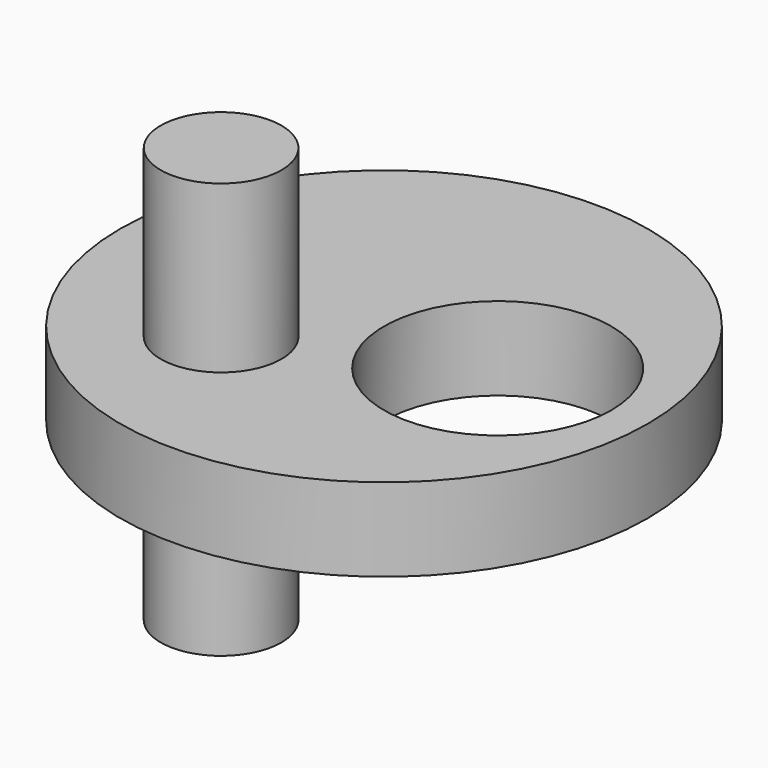
from build123d import *

# Parameters (mm, degrees)
F0_R          = 31.728822
F0_R_2        = 13.666047
F1_DEPTH      = 5
F1_DEPTH_BACK = 5
F2_R          = 7.26181
F3_DEPTH      = 25
F3_DEPTH_BACK = 25


with BuildPart() as f1:
    # F0 (on Top) → F1 (new body, two sides)
    with BuildSketch(Plane.XY) as f1_sk:
        Circle(F0_R)
        with Locations((13.666047, 0)):
            Circle(F0_R_2, mode=Mode.SUBTRACT)
    extrude(amount=F1_DEPTH)
    extrude(f1_sk.sketch, amount=-F1_DEPTH_BACK)

    # F2 (on Top) → F3 (join, two sides)
    with BuildSketch(Plane.XY) as f3_sk:
        with Locations((-10.615021, -11.218742)):
            Circle(F2_R)
    extrude(amount=F3_DEPTH)
    extrude(f3_sk.sketch, amount=-F3_DEPTH_BACK)


solid = f1.part
